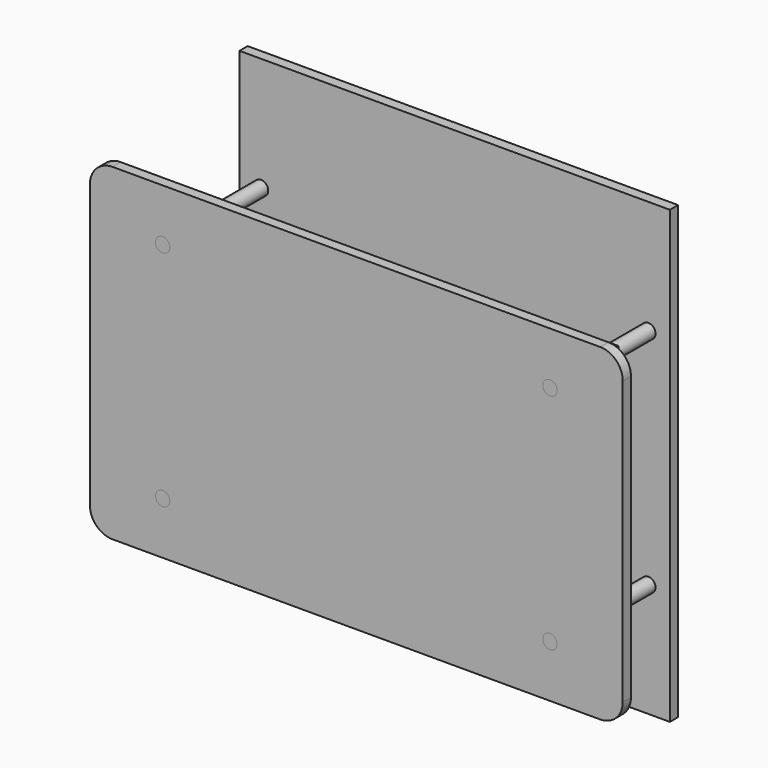
from build123d import *

# Parameters (mm, degrees)
F0_R     = 17.5
F1_DEPTH = 25
F3_R     = 17.5
F4_DEPTH = 25
F6_W     = 1050
F6_H     = 1100
F6_R     = 17.5
F7_DEPTH = 25
F8_R     = 17.5
F9_DEPTH = 325


with BuildPart() as f1:
    # F0 (on Front) → F1 (new body)
    with BuildSketch(Plane.XZ):
        with BuildLine():
            Line((-500, -300), (500, -300))
            Line((500, -300), (500, 300))
            Line((500, 300), (-472.5, 300))
            ThreePointArc((-472.5, 300), (-491.945436, 291.945436), (-500, 272.5))
            Line((-500, 272.5), (-500, -300))
        make_face()
        with Locations((-472.5, -272.5)):
            Circle(F0_R, mode=Mode.SUBTRACT)
        with Locations((472.5, -272.5)):
            Circle(F0_R, mode=Mode.SUBTRACT)
        with Locations((-472.5, 272.5)):
            Circle(F0_R, mode=Mode.SUBTRACT)
        with Locations((472.5, 272.5)):
            Circle(F0_R, mode=Mode.SUBTRACT)
    extrude(amount=F1_DEPTH)


with BuildPart() as f4:
    # F3 (on offset) → F4 (new body)
    with BuildSketch(Plane.XZ.offset(150)):
        with BuildLine():
            Line((-595, -400), (595, -400))
            ThreePointArc((595, -400), (633.890873, -383.890873), (650, -345))
            Line((650, -345), (650, 345))
            ThreePointArc((650, 345), (633.890873, 383.890873), (595, 400))
            Line((595, 400), (-595, 400))
            ThreePointArc((-595, 400), (-633.890873, 383.890873), (-650, 345))
            Line((-650, 345), (-650, -345))
            ThreePointArc((-650, -345), (-633.890873, -383.890873), (-595, -400))
        make_face()
        with Locations((-472.5, -272.5)):
            Circle(F3_R, mode=Mode.SUBTRACT)
        with Locations((472.5, -272.5)):
            Circle(F3_R, mode=Mode.SUBTRACT)
        with Locations((-472.5, 272.5)):
            Circle(F3_R, mode=Mode.SUBTRACT)
        with Locations((472.5, 272.5)):
            Circle(F3_R, mode=Mode.SUBTRACT)
    extrude(amount=F4_DEPTH)


with BuildPart() as f7:
    # F6 (on offset) → F7 (new body)
    with BuildSketch(Plane.XZ.offset(-150)):
        Rectangle(F6_W, F6_H)
        with Locations((-472.5, -272.5)):
            Circle(F6_R, mode=Mode.SUBTRACT)
        with Locations((472.5, -272.5)):
            Circle(F6_R, mode=Mode.SUBTRACT)
        with Locations((-472.5, 272.5)):
            Circle(F6_R, mode=Mode.SUBTRACT)
        with Locations((472.5, 272.5)):
            Circle(F6_R, mode=Mode.SUBTRACT)
    extrude(amount=F7_DEPTH)


with BuildPart() as f9:
    # F8 (on offset) → F9 (new body, through all)
    with BuildSketch(Plane.XZ.offset(-150)):
        with Locations((-472.5, 272.5)):
            Circle(F8_R)
        with Locations((-472.5, -272.5)):
            Circle(F8_R)
        with Locations((472.5, -272.5)):
            Circle(F8_R)
        with Locations((472.5, 272.5)):
            Circle(F8_R)
    extrude(amount=F9_DEPTH)


solid = Compound([f1.part, f4.part, f7.part, f9.part])
